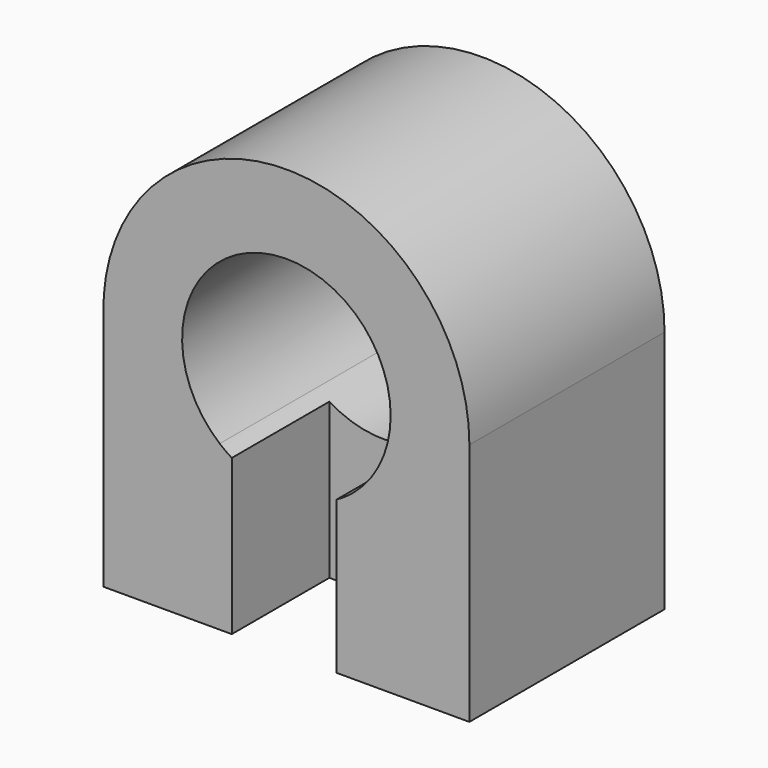
from build123d import *

# Parameters (mm, degrees)
F0_W     = 0.1263646411
F0_H     = 17.0530166703
F1_DEPTH = 25.4
F2_W     = 10.9100927941
F2_H     = 16.1514415487
F3_DEPTH = 12.7


with BuildPart() as f1:
    # F0 (on Front) → F1 (new body)
    with BuildSketch(Plane.XZ):
        with BuildLine():
            ThreePointArc((21.754497215, 12.9199089266), (2.44708795, 31.971602185), (-16.345502785, 12.4119088846))
            Line((-16.345502785, 12.4119088846), (-16.345502785, -12.4800910734))
            Line((-16.345502785, -12.4800910734), (-4.3663154356, -12.4800910734))
            Line((-4.3663154356, -12.4800910734), (-4.3663154356, 4.572925597))
            Line((-4.3663154356, 4.572925597), (-4.2399507945, 4.572925597))
            ThreePointArc((-4.2399507945, 4.572925597), (-1.9086089611, 22.7484871204), (13.5570058707, 12.9199089266))
            ThreePointArc((13.5570058707, 12.9199089266), (12.5724735008, 8.40253616), (9.7974529079, 4.7045338061))
            Line((9.7974529079, 4.7045338061), (9.7974529079, -12.4800910734))
            Line((9.7974529079, -12.4800910734), (21.754497215, -12.4800910734))
            Line((21.754497215, -12.4800910734), (21.754497215, 12.9199089266))
        make_face()
        with Locations((-4.303133115, -3.9535827382)):
            Rectangle(F0_W, F0_H)
        with BuildLine():
            Line((-4.2399507945, 4.572925597), (-4.2399507945, -12.4800910734))
            Line((-4.2399507945, -12.4800910734), (9.7974529079, -12.4800910734))
            Line((9.7974529079, -12.4800910734), (9.7974529079, 4.7045338061))
            ThreePointArc((9.7974529079, 4.7045338061), (2.8028859319, 2.0644906927), (-4.2399507945, 4.572925597))
        make_face()
    extrude(amount=F1_DEPTH)

    # F2 (on face) → F3 (cut)
    with BuildSketch(Plane.XZ.offset(25.4)):
        with Locations((2.4715611074, -4.404370299)):
            Rectangle(F2_W, F2_H)
    extrude(amount=-F3_DEPTH, mode=Mode.SUBTRACT)


solid = f1.part
